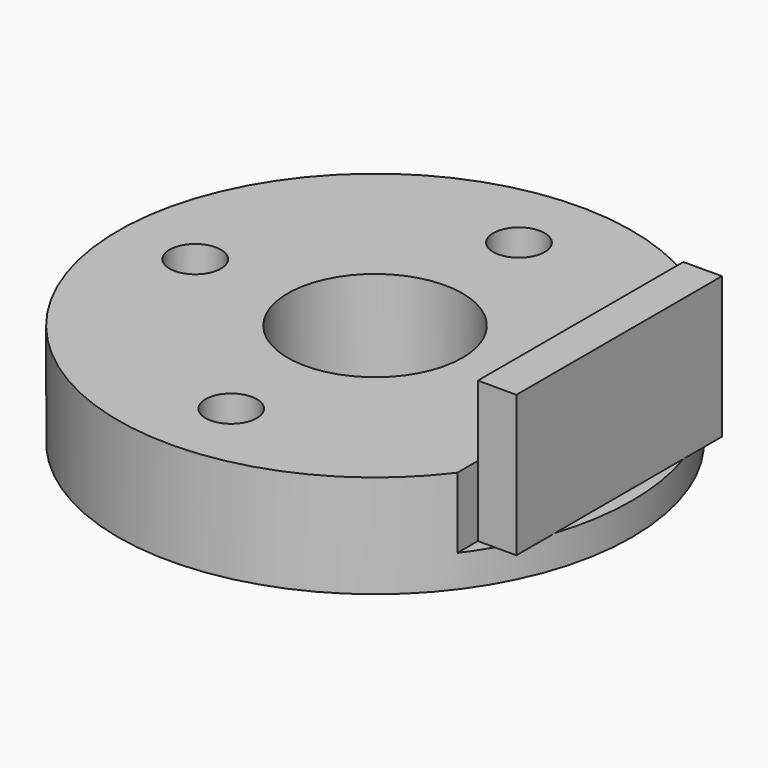
from build123d import *

# Parameters (mm, degrees)
F0_R      = 63.5
F1_DEPTH  = 25.4
F3_DEPTH  = 17.4625
F4_R      = 6.35
F5_DEPTH  = 19.05
F6_R      = 21.59
F7_DEPTH  = 25.4
F8_R      = 32.54375
F8_R_2    = 21.59
F9_DEPTH  = 12.7
F11_DEPTH = 9.525


with BuildPart() as f1:
    # F0 (on Top) → F1 (new body)
    with BuildSketch(Plane.XY):
        Circle(F0_R)
    extrude(amount=F1_DEPTH)

    # F2 (on face) → F3 (cut)
    with BuildSketch(Plane.XY.offset(25.4)):
        with BuildLine():
            ThreePointArc((50.8, -38.1), (63.5, 0), (50.8, 38.1))
            Line((50.8, 38.1), (50.8, -38.1))
        make_face()
    extrude(amount=-F3_DEPTH, mode=Mode.SUBTRACT)

    # F4 (on face) → F5 (cut)
    with BuildSketch(Plane.XY.offset(25.4)):
        with Locations((0, 44.45)):
            Circle(F4_R)
        with Locations((-44.45, 0)):
            Circle(F4_R)
        with Locations((0, -44.45)):
            Circle(F4_R)
    extrude(amount=-F5_DEPTH, mode=Mode.SUBTRACT)

    # F6 (on face) → F7 (cut, through all)
    with BuildSketch(Plane.XY.offset(25.4)):
        Circle(F6_R)
    extrude(amount=-F7_DEPTH, mode=Mode.SUBTRACT)

    # F8 (on face) → F9 (join)
    with BuildSketch(Plane(origin=(0, 0, 0), x_dir=(1, 0, 0), z_dir=(0, 0, -1))):
        Circle(F8_R)
        Circle(F8_R_2, mode=Mode.SUBTRACT)
    extrude(amount=F9_DEPTH)

    # F10 (on face) → F11 (join)
    with BuildSketch(Plane.YZ.offset(50.8)):
        Polygon((-31.75, 7.9375), (0, 7.9375), (31.75, 7.9375), (31.75, 42.8625), (0, 42.8625), (-31.75, 42.8625), align=None)
    extrude(amount=F11_DEPTH)


solid = f1.part
